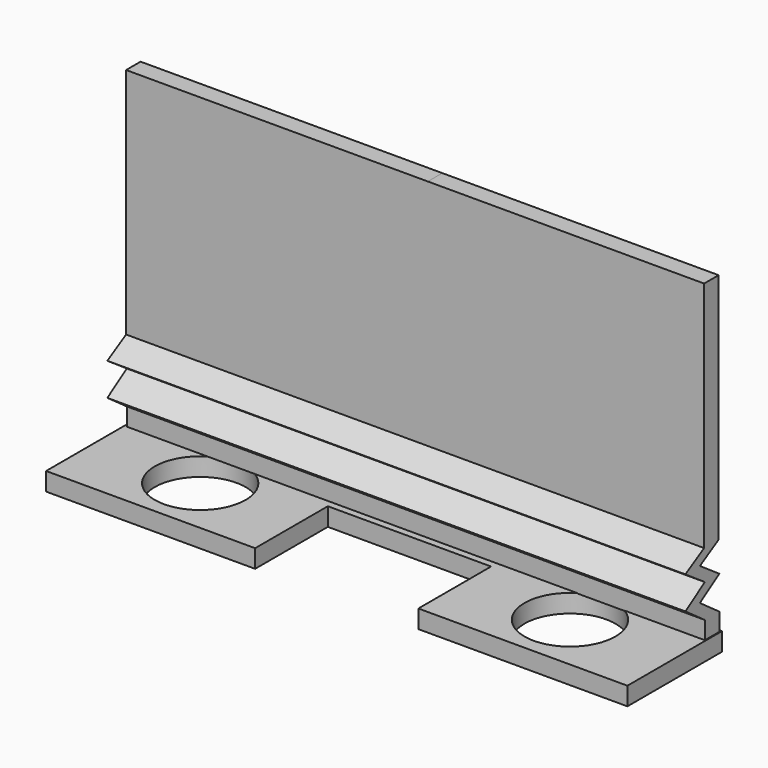
from build123d import *

# Parameters (mm, degrees)
F0_W     = 22.8092
F0_H     = 3.81
F1_DEPTH = 2.54
F3_D     = 12.7
F4_W     = 2.533436
F4_H     = 32.537733
F4_H_2   = 2.533436
F5_DEPTH = 39.878
F6_DEPTH = 40.894
F7_DEPTH = 2.54
F8_DEPTH = 1.27


with BuildPart() as f1:
    # F0 (on Top) → F1 (new body)
    with BuildSketch(Plane.XY):
        Polygon((39.999277, -8.255), (39.999277, 8.255), (10.789277, 8.255), (10.789277, 4.445), (10.789277, -8.255), align=None)
        with Locations((-0.615323, 6.35)):
            Rectangle(F0_W, F0_H)
        Polygon((-12.019923, 4.445), (-12.019923, 8.255), (-41.229923, 8.255), (-41.229923, -8.255), (-12.019923, -8.255), align=None)
    extrude(amount=F1_DEPTH)

    # F3 (through all)
    with Locations(Plane(origin=(0, 0, 0), x_dir=(1, 0, 0), z_dir=(0, 0, -1))):
        with Locations((-26.298294, 0), (25.369024, 0)):
            Hole(F3_D / 2)

    # F4 (on Right) → F5 (join)
    with BuildSketch(Plane.YZ):
        Polygon((4.560548, 12.021394), (7.831009, 13.925678), (5.297573, 13.925678), (2.027112, 12.021394), (5.421916, 9.690633), (2.027112, 7.46121), (5.421916, 5.029112), (7.955352, 5.029112), (4.560548, 7.46121), (7.955352, 9.690633), align=None)
        with Locations((6.564291, 30.194544)):
            Rectangle(F4_W, F4_H)
        with Locations((6.688634, 3.762394)):
            Rectangle(F4_W, F4_H_2)
    extrude(amount=F5_DEPTH)

    # F5_face (on face) → F6 (join)
    with BuildSketch(Plane(origin=(0, 6.250023, 24.501706), x_dir=(0, 1, 0), z_dir=(-1, 0, 0))):
        Polygon((-1.689476, 12.480312), (1.705328, 14.811073), (-1.689476, 17.040496), (1.705328, 19.472594), (1.705328, 21.961706), (-0.828107, 21.961706), (-0.828107, 19.472594), (-4.222911, 17.040496), (-0.828107, 14.811073), (-4.222911, 12.480312), (-0.95245, 10.576028), (-0.95245, -21.961706), (1.580986, -21.961706), (1.580986, 10.576028), align=None)
    extrude(amount=F6_DEPTH)

    # F6_face (on face) → F7 (join)
    with BuildSketch(Plane(origin=(-40.894, 6.250023, 24.501706), x_dir=(0, 1, 0), z_dir=(-1, 0, 0))):
        Polygon((-0.95245, 10.576028), (-0.95245, -21.961706), (1.580986, -21.961706), (1.580986, 10.576028), (-1.689476, 12.480312), (1.705328, 14.811073), (-1.689476, 17.040496), (1.705328, 19.472594), (1.705328, 21.961706), (-0.828107, 21.961706), (-0.828107, 19.472594), (-4.222911, 17.040496), (-0.828107, 14.811073), (-4.222911, 12.480312), align=None)
    extrude(amount=-F7_DEPTH)

    # F5_face (on face) → F8 (join)
    with BuildSketch(Plane(origin=(0, 6.250023, 24.501706), x_dir=(0, 1, 0), z_dir=(-1, 0, 0))):
        Polygon((1.705328, 14.811073), (-1.689476, 12.480312), (1.580986, 10.576028), (1.580986, -21.961706), (-0.95245, -21.961706), (-0.95245, 10.576028), (-4.222911, 12.480312), (-0.828107, 14.811073), (-4.222911, 17.040496), (-0.828107, 19.472594), (-0.828107, 21.961706), (1.705328, 21.961706), (1.705328, 19.472594), (-1.689476, 17.040496), align=None)
    extrude(amount=-F8_DEPTH)


solid = f1.part
